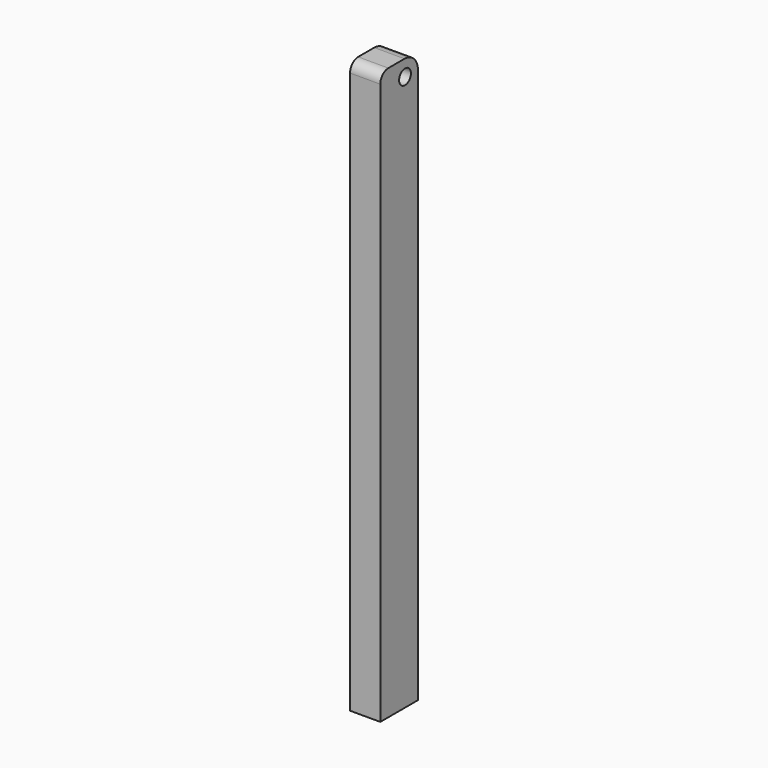
from build123d import *

# Parameters (mm, degrees)
F0_W     = 45
F0_H     = 850
F1_DEPTH = 70
F2_R     = 11
F3_DEPTH = 45.001
F4_R     = 25
F5_R     = 15


with BuildPart() as f1:
    # F0 (on Front) → F1 (new body)
    with BuildSketch(Plane.XZ):
        with Locations((22.5, -425)):
            Rectangle(F0_W, F0_H)
    extrude(amount=F1_DEPTH)

    # F2 (on face) → F3 (cut, through all)
    with BuildSketch(Plane(origin=(0, 0, 0), x_dir=(0, -1, 0), z_dir=(-1, 0, 0))):
        with Locations((24, -24)):
            Circle(F2_R)
    extrude(amount=-F3_DEPTH, mode=Mode.SUBTRACT)

    # F4
    f4_edges = [f1.edges().sort_by_distance(p)[0] for p in [
        (22.5, 0, 0),
    ]]
    fillet(f4_edges, radius=F4_R)

    # F5
    f5_edges = [f1.edges().sort_by_distance(p)[0] for p in [
        (22.5, -70, 0),
    ]]
    fillet(f5_edges, radius=F5_R)


solid = f1.part
